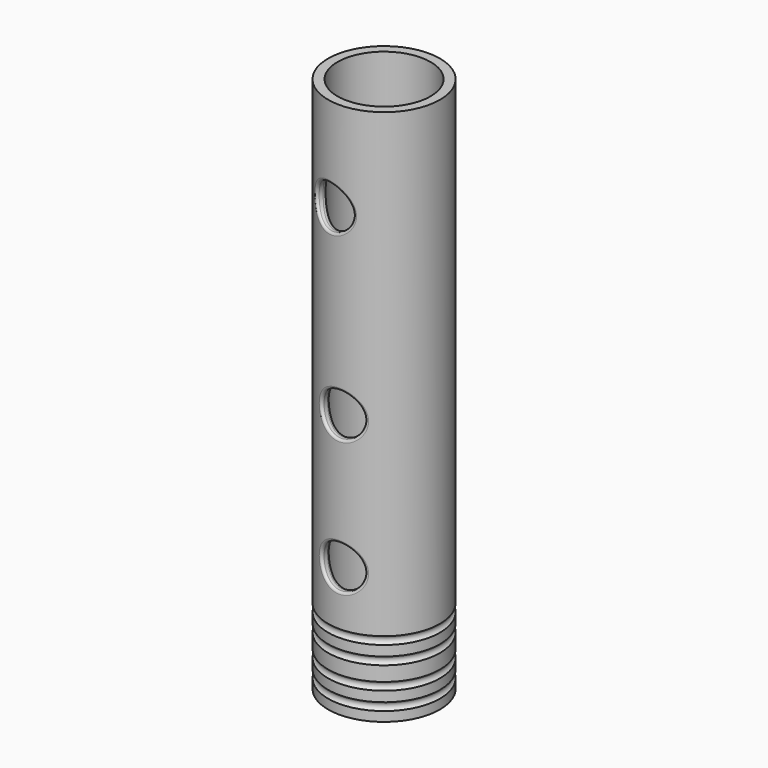
from build123d import *

# Parameters (mm, degrees)
TORUS_R                           = 1
TORUS001_R                        = 1
CYLINDER006_R                     = 4.8
CYLINDER006_DEPTH                 = 10
CYLINDER006_ROLL_ANGLE            = 90
CYLINDER006001_R                  = 4.8
CYLINDER006001_DEPTH              = 10
CYLINDER006001_ROLL_ANGLE         = 90
CYLINDER006001001_R               = 4.8
CYLINDER006001001_DEPTH           = 10
CYLINDER006001001_ROLL_ANGLE      = 89.997251
CYLINDER006001001_PITCH_ANGLE     = -0.000247
CYLINDER006001001_PLACEMENT_ANGLE = -16.99983
TORUS001001_R                     = 1
TORUS001002_R                     = 1
CYLINDER001_R                     = 10.4
CYLINDER001_DEPTH                 = 120
CYLINDER_R                        = 12.5
CYLINDER_DEPTH                    = 120
FILLET_R                          = 0.5
FILLET001_R                       = 1


with BuildPart() as torus:
    # Torus → Torus (revolve)
    with BuildSketch(Plane(origin=(0, 0, 3), x_dir=(1, 0, 0), z_dir=(0, -1, 0))):
        with Locations((13, 0)):
            Circle(TORUS_R)
    revolve(axis=Axis((0, 0, 3), (0, 0, 1)))


with BuildPart() as torus001:
    # Torus001 → Torus001 (revolve)
    with BuildSketch(Plane(origin=(0, 0, 16), x_dir=(1, 0, 0), z_dir=(0, -1, 0))):
        with Locations((13, 0)):
            Circle(TORUS001_R)
    revolve(axis=Axis((0, 0, 16), (0, 0, 1)))


with BuildPart() as obj1:
    # Cylinder006 → Cylinder006 (new body)
    with BuildSketch(Plane.XY):
        Circle(CYLINDER006_R)
    extrude(amount=CYLINDER006_DEPTH)


with BuildPart() as obj1_1:
    # Cylinder006 roll: moved
    add(obj1.part.rotate(Axis((0, 0, 0), (1, 0, 0)), CYLINDER006_ROLL_ANGLE))


with BuildPart() as obj1_2:
    # Cylinder006 placement: moved
    add(obj1_1.part.moved(Location((0, -8, 29))))


with BuildPart() as obj2:
    # Cylinder006001 → Cylinder006001 (new body)
    with BuildSketch(Plane.XY):
        Circle(CYLINDER006001_R)
    extrude(amount=CYLINDER006001_DEPTH)


with BuildPart() as obj2_1:
    # Cylinder006001 roll: moved
    add(obj2.part.rotate(Axis((0, 0, 0), (1, 0, 0)), CYLINDER006001_ROLL_ANGLE))


with BuildPart() as obj2_2:
    # Cylinder006001 placement: moved
    add(obj2_1.part.moved(Location((0, -8, 59))))


with BuildPart() as obj3:
    # Cylinder006001001 → Cylinder006001001 (new body)
    with BuildSketch(Plane.XY):
        Circle(CYLINDER006001001_R)
    extrude(amount=CYLINDER006001001_DEPTH)


with BuildPart() as obj3_1:
    # Cylinder006001001 roll: moved
    add(obj3.part.rotate(Axis((0, 0, 0), (1, 0, 0)), CYLINDER006001001_ROLL_ANGLE))


with BuildPart() as obj3_2:
    # Cylinder006001001 pitch: moved
    add(obj3_1.part.rotate(Axis((0, 0, 0), (0, 1, 0)), CYLINDER006001001_PITCH_ANGLE))


with BuildPart() as obj3_3:
    # Cylinder006001001 placement: moved
    add(obj3_2.part.moved(Location((-1.11338, -7.92214, 99))).rotate(Axis((-1.11338, -7.92214, 99), (0, 0, 1)), CYLINDER006001001_PLACEMENT_ANGLE))


with BuildPart() as torus001001:
    # Torus001001 → Torus001001 (revolve)
    with BuildSketch(Plane(origin=(0, 0, 12), x_dir=(1, 0, 0), z_dir=(0, -1, 0))):
        with Locations((13, 0)):
            Circle(TORUS001001_R)
    revolve(axis=Axis((0, 0, 12), (0, 0, 1)))


with BuildPart() as torus001002:
    # Torus001002 → Torus001002 (revolve)
    with BuildSketch(Plane(origin=(0, 0, 7), x_dir=(1, 0, 0), z_dir=(0, -1, 0))):
        with Locations((13, 0)):
            Circle(TORUS001002_R)
    revolve(axis=Axis((0, 0, 7), (0, 0, 1)))


with BuildPart() as cylinder001:
    # Cylinder001 → Cylinder001 (new body)
    with BuildSketch(Plane.XY):
        Circle(CYLINDER001_R)
    extrude(amount=CYLINDER001_DEPTH)


with BuildPart() as fillet001:
    # Cylinder → Cylinder (new body)
    with BuildSketch(Plane.XY):
        Circle(CYLINDER_R)
    extrude(amount=CYLINDER_DEPTH)

    # Cut: cut Cylinder001
    add(cylinder001.part, mode=Mode.SUBTRACT)

    # Cut001: cut Torus001002
    add(torus001002.part, mode=Mode.SUBTRACT)

    # Cut002: cut Torus001001
    add(torus001001.part, mode=Mode.SUBTRACT)

    # Cut003: cut obj3
    add(obj3_3.part, mode=Mode.SUBTRACT)

    # Cut004: cut obj2
    add(obj2_2.part, mode=Mode.SUBTRACT)

    # Cut005: cut obj1
    add(obj1_2.part, mode=Mode.SUBTRACT)

    # Cut006: cut Torus001
    add(torus001.part, mode=Mode.SUBTRACT)

    # Cut007: cut Torus
    add(torus.part, mode=Mode.SUBTRACT)

    # Fillet
    fillet_edges = [fillet001.edges().sort_by_distance(p)[0] for p in [
        (-4.8, -11.541664, 29),
        (-4.8, -11.541664, 59),
        (-6.897749, -10.424541, 99.000237),
    ]]
    fillet(fillet_edges, radius=FILLET_R)

    # Fillet001
    fillet001_edges = [fillet001.edges().sort_by_distance(p)[0] for p in [
        (-6.251656, -8.311245, 99.000145),
        (-4.8, -9.22605, 59),
        (-4.8, -9.22605, 29),
    ]]
    fillet(fillet001_edges, radius=FILLET001_R)


solid = fillet001.part
